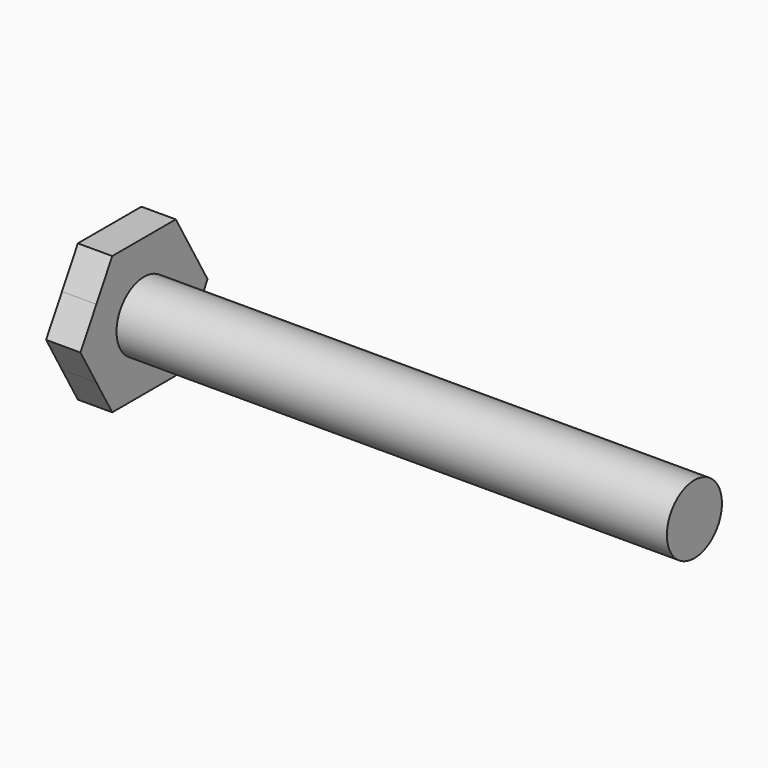
from build123d import *

# Parameters (mm, degrees)
F0_R     = 2.5
F1_DEPTH = 40
F3_DEPTH = 2.5


with BuildPart() as f1:
    # F0 (on Right) → F1 (new body)
    with BuildSketch(Plane.YZ):
        Circle(F0_R)
    extrude(amount=F1_DEPTH)

    # F2 (on Right) → F3 (join)
    with BuildSketch(Plane.YZ):
        with BuildLine():
            ThreePointArc((4.3301269939, -2.5000000434), (4.829629125, -1.2940952497), (5, 0))
            ThreePointArc((5, 0), (4.8296291219, 1.294095261), (4.3301269822, 2.5000000636))
            ThreePointArc((4.3301269822, 2.5000000636), (2.4999999682, 4.3301270373), (0, 5))
            ThreePointArc((0, 5), (-2.5000000374, 4.3301269973), (-4.3301270621, 2.4999999252))
            ThreePointArc((-4.3301270621, 2.4999999252), (-5, 3.05e-08), (-4.3301270927, -2.4999998723))
            ThreePointArc((-4.3301270927, -2.4999998723), (-2.5000000639, -4.330126982), (0, -5))
            ThreePointArc((0, -5), (2.4999999783, -4.3301270315), (4.3301269939, -2.5000000434))
        make_face()
        with BuildLine():
            ThreePointArc((4.3301269822, 2.5000000636), (4.8296291219, 1.294095261), (5, 0))
            ThreePointArc((5, 0), (4.829629125, -1.2940952497), (4.3301269939, -2.5000000434))
            Line((4.3301269939, -2.5000000434), (5.7735026919, 0))
            Line((5.7735026919, 0), (4.3301269822, 2.5000000636))
        make_face()
        with BuildLine():
            ThreePointArc((0, 5), (2.4999999682, 4.3301270373), (4.3301269822, 2.5000000636))
            Line((4.3301269822, 2.5000000636), (2.8867513459, 5))
            Line((2.8867513459, 5), (0, 5))
        make_face()
        with BuildLine():
            Line((2.8867513459, -5), (4.3301269939, -2.5000000434))
            ThreePointArc((4.3301269939, -2.5000000434), (2.4999999783, -4.3301270315), (0, -5))
            Line((0, -5), (2.8867513459, -5))
        make_face()
        with BuildLine():
            ThreePointArc((-4.3301270621, 2.4999999252), (-2.5000000374, 4.3301269973), (0, 5))
            Line((0, 5), (-2.8867513459, 5))
            Line((-2.8867513459, 5), (-4.3301270621, 2.4999999252))
        make_face()
        with BuildLine():
            Line((-2.8867513459, -5), (0, -5))
            ThreePointArc((0, -5), (-2.5000000639, -4.330126982), (-4.3301270927, -2.4999998723))
            Line((-4.3301270927, -2.4999998723), (-2.8867513459, -5))
        make_face()
        with BuildLine():
            ThreePointArc((-4.3301270927, -2.4999998723), (-5, 3.05e-08), (-4.3301270621, 2.4999999252))
            Line((-4.3301270621, 2.4999999252), (-5.7735026919, 0))
            Line((-5.7735026919, 0), (-4.3301270927, -2.4999998723))
        make_face()
    extrude(amount=-F3_DEPTH)


solid = f1.part
